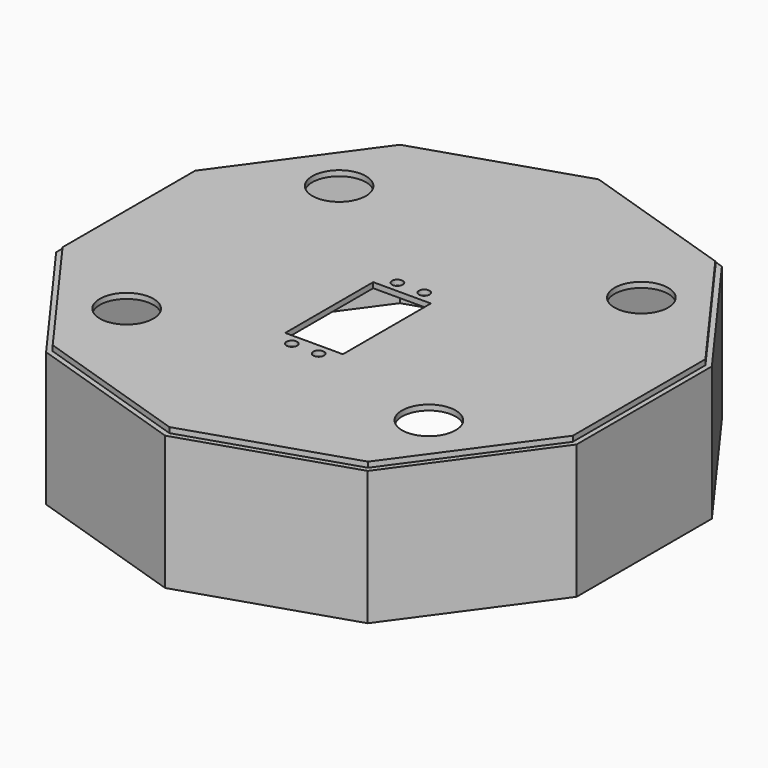
from build123d import *

# Parameters (mm, degrees)
F0_R     = 10
F0_R_2   = 2
F0_W     = 21.5
F0_H     = 41
F1_DEPTH = 2
F2_DEPTH = 50


with BuildPart() as f1:
    # F0 (on Top) → F1 (new body)
    with BuildSketch(Plane.XY):
        Polygon((58.778525, 80.901699), (0, 100), (-58.778525, 80.901699), (-95.105652, 30.901699), (-95.105652, -30.901699), (-58.778525, -80.901699), (0, -100), (58.778525, -80.901699), (95.105652, -30.901699), (95.105652, 30.901699), align=None)
        with Locations((-56.33234, -49.514315)):
            Circle(F0_R, mode=Mode.SUBTRACT)
        with Locations((-5, -36.7)):
            Circle(F0_R_2, mode=Mode.SUBTRACT)
        with Locations((5, -36.7)):
            Circle(F0_R_2, mode=Mode.SUBTRACT)
        with Locations((0, -12.1)):
            Rectangle(F0_W, F0_H, mode=Mode.SUBTRACT)
        with Locations((56.33234, -49.514315)):
            Circle(F0_R, mode=Mode.SUBTRACT)
        with Locations((-56.33234, 49.514315)):
            Circle(F0_R, mode=Mode.SUBTRACT)
        with Locations((-5, 12.5)):
            Circle(F0_R_2, mode=Mode.SUBTRACT)
        with Locations((5, 12.5)):
            Circle(F0_R_2, mode=Mode.SUBTRACT)
        with Locations((56.33234, 49.514315)):
            Circle(F0_R, mode=Mode.SUBTRACT)
    extrude(amount=F1_DEPTH)


with BuildPart() as f2:
    # F0 (on Top) → F2 (new body)
    with BuildSketch(Plane.XY):
        Polygon((59.954096, 82.519733), (0, 102), (-59.954096, 82.519733), (-97.007765, 31.519733), (-97.007765, -31.519733), (-59.954096, -82.519733), (0, -102), (59.954096, -82.519733), (97.007765, -31.519733), (97.007765, 31.519733), align=None)
        Polygon((-58.778525, 80.901699), (0, 100), (58.778525, 80.901699), (95.105652, 30.901699), (95.105652, -30.901699), (58.778525, -80.901699), (0, -100), (-58.778525, -80.901699), (-95.105652, -30.901699), (-95.105652, 30.901699), align=None, mode=Mode.SUBTRACT)
    extrude(amount=-F2_DEPTH)


solid = Compound([f1.part, f2.part])
